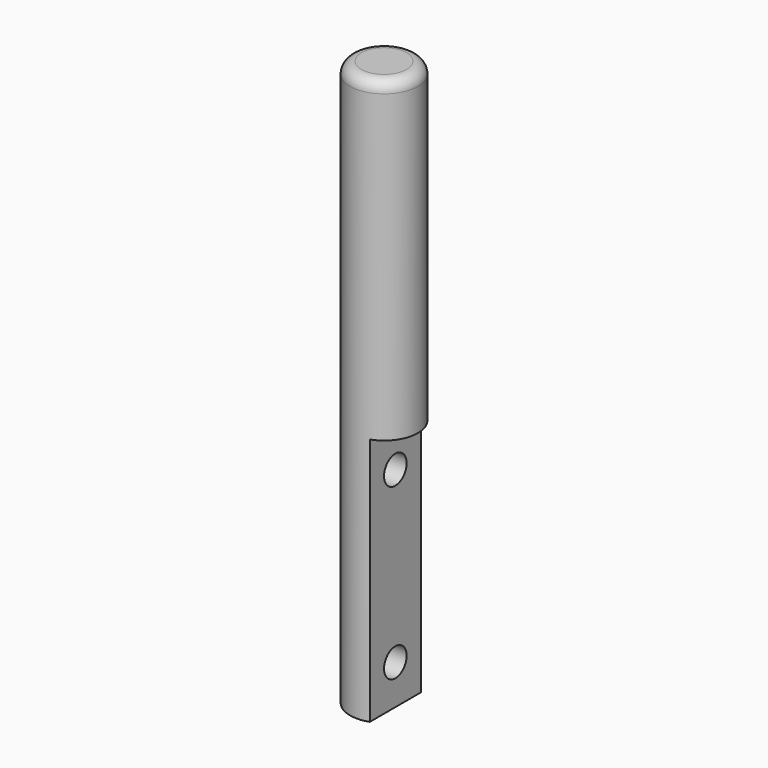
from build123d import *

# Parameters (mm, degrees)
F0_R     = 3
F1_DEPTH = 50
F2_R     = 1
F4_W     = 9.6827019006
F4_H     = 44
F5_DEPTH = 2
F7_D     = 2.5


with BuildPart() as f1:
    # F0 (on Top) → F1 (new body)
    with BuildSketch(Plane.XY):
        Circle(F0_R)
    extrude(amount=F1_DEPTH)

    # F2
    f2_edges = [f1.edges().sort_by_distance(p)[0] for p in [
        (-3, 0, 50),
    ]]
    fillet(f2_edges, radius=F2_R)

    # F4 (on offset) → F5 (cut)
    with BuildSketch(Plane.YZ.offset(3)):
        Rectangle(F4_W, F4_H)
    extrude(amount=-F5_DEPTH, mode=Mode.SUBTRACT)

    # F7 (through all)
    with Locations(Plane.YZ.offset(1)):
        with Locations((0, 3.5), (0, 18.5)):
            Hole(F7_D / 2)


solid = f1.part
